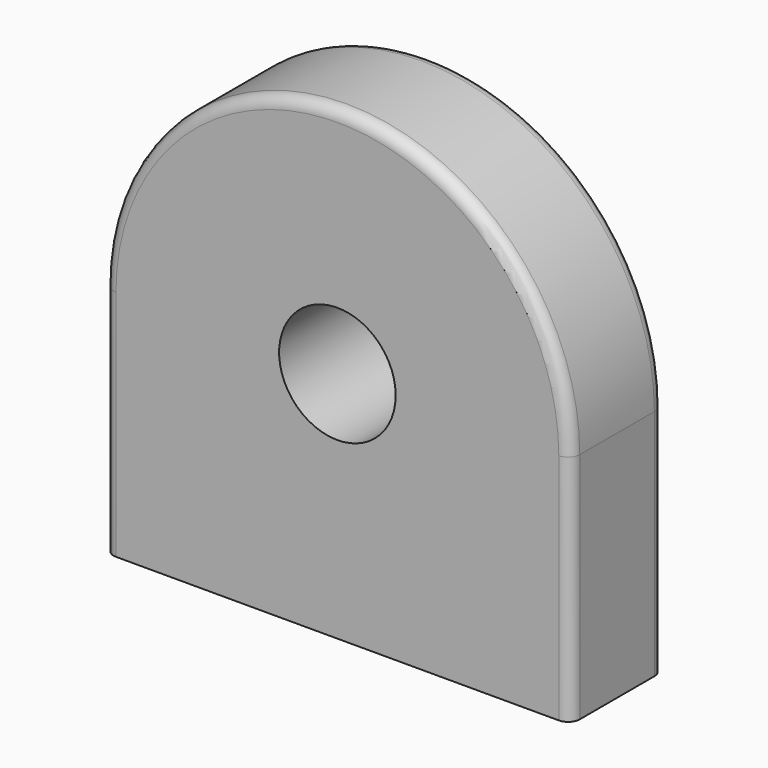
from build123d import *

# Parameters (mm, degrees)
F0_R     = 2.5
F1_DEPTH = 5
F2_R     = 0.5


with BuildPart() as f1:
    # F0 (on Front) → F1 (new body)
    with BuildSketch(Plane.XZ):
        with BuildLine():
            Line((-10, 12.10352), (10, 12.10352))
            Line((10, 12.10352), (10, 22.10352))
            ThreePointArc((10, 22.10352), (0, 32.10352), (-10, 22.10352))
            Line((-10, 22.10352), (-10, 12.10352))
        make_face()
        with Locations((0, 22.10352)):
            Circle(F0_R, mode=Mode.SUBTRACT)
    extrude(amount=F1_DEPTH)

    # F2
    f2_edges = [f1.edges().sort_by_distance(p)[0] for p in [
        (0, -5, 32.10352),
        (10, 0, 17.10352),
    ]]
    fillet(f2_edges, radius=F2_R)


solid = f1.part
